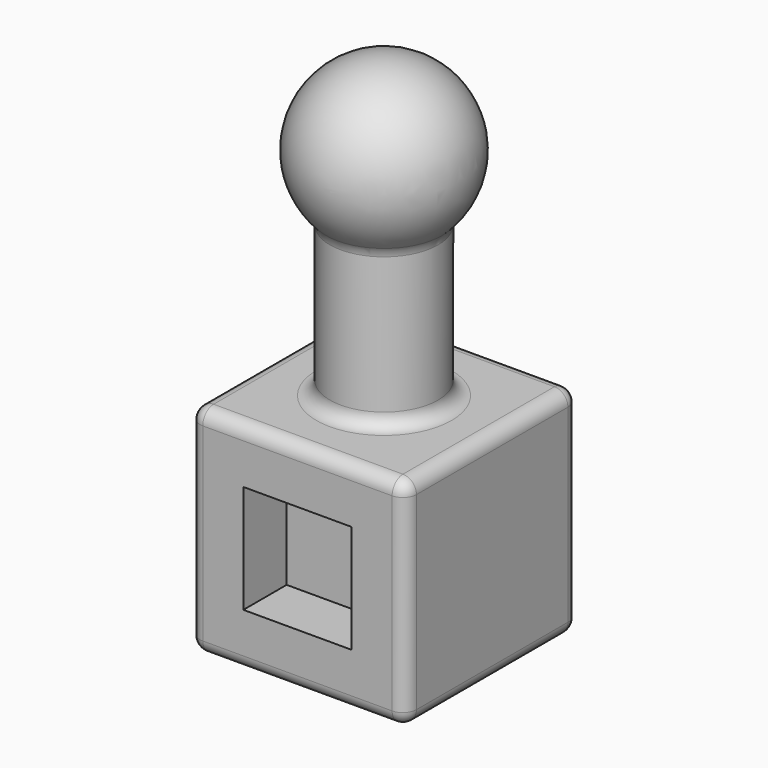
from build123d import *

# Parameters (mm, degrees)
F0_W     = 101.6
F0_H     = 101.6
F1_DEPTH = 101.6
F2_R     = 25.4
F3_DEPTH = 101.6
F4_W     = 50.8
F4_H     = 50.8
F5_DEPTH = 25.4
F8_R     = 6.35


with BuildPart() as f1:
    # F0 (on Top) → F1 (new body)
    with BuildSketch(Plane.XY):
        Rectangle(F0_W, F0_H)
    extrude(amount=F1_DEPTH)

    # F2 (on face) → F3 (join)
    with BuildSketch(Plane.XY.offset(101.6)):
        Circle(F2_R)
    extrude(amount=F3_DEPTH)

    # F4 (on face) → F5 (cut)
    with BuildSketch(Plane.XZ.offset(50.8)):
        with Locations((0, 50.8)):
            Rectangle(F4_W, F4_H)
    extrude(amount=-F5_DEPTH, mode=Mode.SUBTRACT)

    # F6 (on face) → F7 (revolve)
    with BuildSketch(Plane.XY.offset(203.2)):
        with BuildLine():
            Line((0, -25.4), (0, -38.1))
            ThreePointArc((0, -38.1), (38.1, 0), (0, 38.1))
            Line((0, 38.1), (0, 25.4))
            ThreePointArc((0, 25.4), (17.9605122421, 17.9605122421), (25.4, 0))
            ThreePointArc((25.4, 0), (17.9605122421, -17.9605122421), (0, -25.4))
        make_face()
    revolve(axis=Axis((0, 0, 203.2), (0, -1, 0)))

    # F8
    f8_edges = [f1.edges().sort_by_distance(p)[0] for p in [
        (0, -50.8, 101.6),
        (-50.8, 0, 101.6),
        (0, 50.8, 101.6),
        (50.8, 0, 101.6),
        (50.8, -50.8, 50.8),
        (-50.8, -50.8, 50.8),
        (50.8, 0, 0),
        (0, -50.8, 0),
        (50.8, 50.8, 50.8),
        (-25.4, 0, 174.801937),
        (-25.4, 0, 101.6),
        (25.4, 0, 138.200968),
        (-50.8, 50.8, 50.8),
        (-50.8, 0, 0),
        (0, 50.8, 0),
    ]]
    fillet(f8_edges, radius=F8_R)


solid = f1.part
